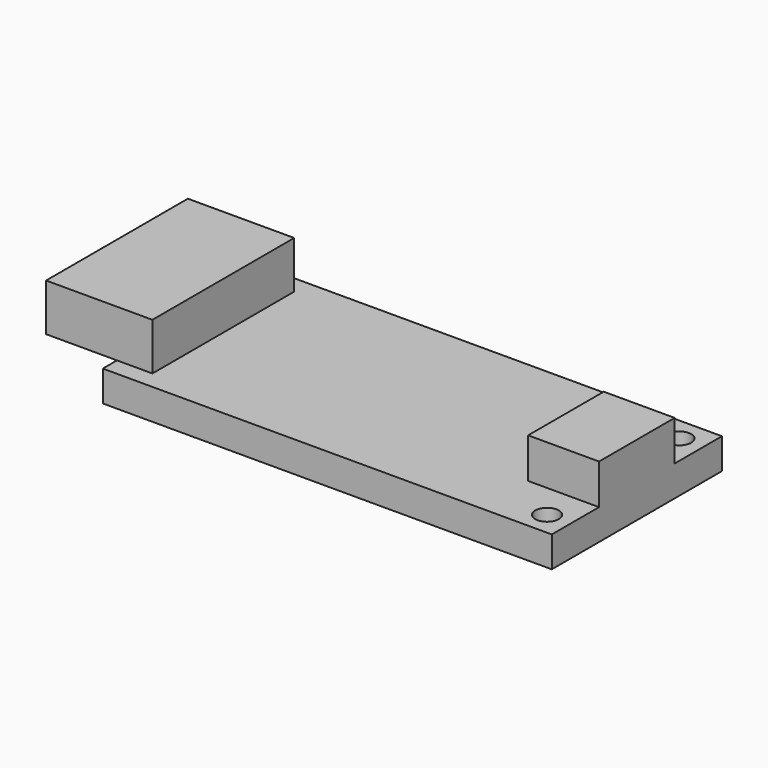
from build123d import *

# Parameters (mm, degrees)
F0_W     = 38
F0_H     = 18
F1_DEPTH = 2.6
F2_R     = 1
F3_DEPTH = 2.6
F4_W     = 6
F4_H     = 8
F5_DEPTH = 3.4
F6_W     = 9
F6_H     = 15
F7_DEPTH = 4


with BuildPart() as f1:
    # F0 (on Top) → F1 (new body)
    with BuildSketch(Plane.XY):
        Rectangle(F0_W, F0_H)
    extrude(amount=F1_DEPTH)

    # F2 (on face) → F3 (cut, through all)
    with BuildSketch(Plane.XY.offset(2.6)):
        with Locations((17, 7)):
            Circle(F2_R)
        with Locations((17, -7)):
            Circle(F2_R)
    extrude(amount=-F3_DEPTH, mode=Mode.SUBTRACT)

    # F4 (on face) → F5 (join)
    with BuildSketch(Plane.XY.offset(2.6)):
        with Locations((16, 0)):
            Rectangle(F4_W, F4_H)
    extrude(amount=F5_DEPTH)

    # F6 (on face) → F7 (join)
    with BuildSketch(Plane.XY.offset(2.6)):
        with Locations((-20.5, 0)):
            Rectangle(F6_W, F6_H)
    extrude(amount=F7_DEPTH)


solid = f1.part
